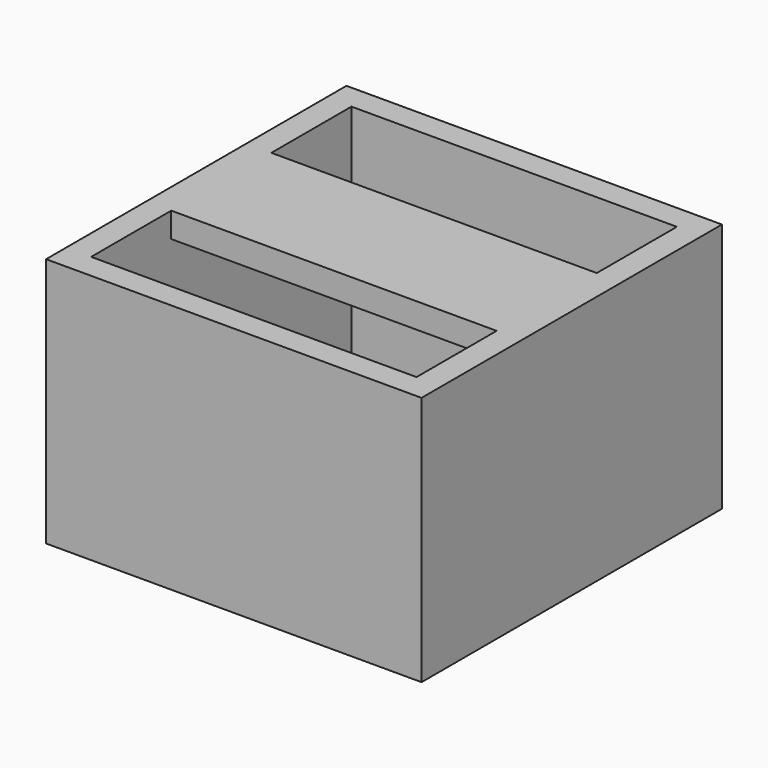
from build123d import *

# Parameters (mm, degrees)
F0_W     = 30
F0_H     = 30
F0_W_2   = 26
F0_H_2   = 26
F1_DEPTH = 20
F2_W     = 26
F2_H     = 10
F3_DEPTH = 2


with BuildPart() as f1:
    # F0 (on Top) → F1 (new body)
    with BuildSketch(Plane.XY):
        Rectangle(F0_W, F0_H)
        Rectangle(F0_W_2, F0_H_2, mode=Mode.SUBTRACT)
    extrude(amount=F1_DEPTH)

    # F2 (on face) → F3 (join)
    with BuildSketch(Plane.XY.offset(20)):
        Rectangle(F2_W, F2_H)
    extrude(amount=-F3_DEPTH)


solid = f1.part
